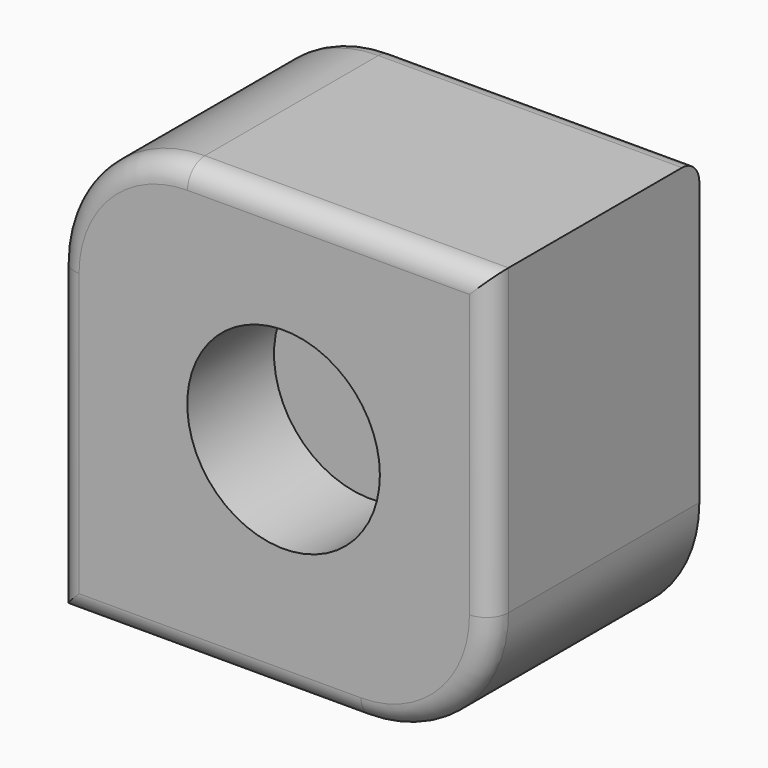
from build123d import *

# Parameters (mm, degrees)
F1_DEPTH = 60
F2_R     = 5
F3_R     = 22.203216
F4_DEPTH = 25


with BuildPart() as f1:
    # F0 (on Front) → F1 (new body)
    with BuildSketch(Plane.XZ):
        with BuildLine():
            Line((47.853137, 75.714735), (-22.146863, 75.714735))
            ThreePointArc((-22.146863, 75.714735), (-43.360067, 66.927938), (-52.146863, 45.714735))
            Line((-52.146863, 45.714735), (-52.146863, -24.285265))
            Line((-52.146863, -24.285265), (17.853137, -24.285265))
            ThreePointArc((17.853137, -24.285265), (39.06634, -15.498468), (47.853137, 5.714735))
            Line((47.853137, 5.714735), (47.853137, 75.714735))
        make_face()
    extrude(amount=F1_DEPTH)

    # F2
    f2_edges = [f1.edges().sort_by_distance(p)[0] for p in [
        (-22.146863, -30, 75.714735),
        (-52.146863, -30, 45.714735),
        (-43.360067, 0, 66.927938),
        (-43.360067, -60, 66.927938),
        (47.853137, -60, 40.714735),
        (12.853137, -60, 75.714735),
        (-52.146863, -60, 10.714735),
        (-17.146863, -60, -24.285265),
        (39.06634, -60, -15.498468),
    ]]
    fillet(f2_edges, radius=F2_R)

    # F3 (on face) → F4 (cut)
    with BuildSketch(Plane.XZ.offset(60)):
        with Locations((0, 27.350072)):
            Circle(F3_R)
    extrude(amount=-F4_DEPTH, mode=Mode.SUBTRACT)


solid = f1.part
